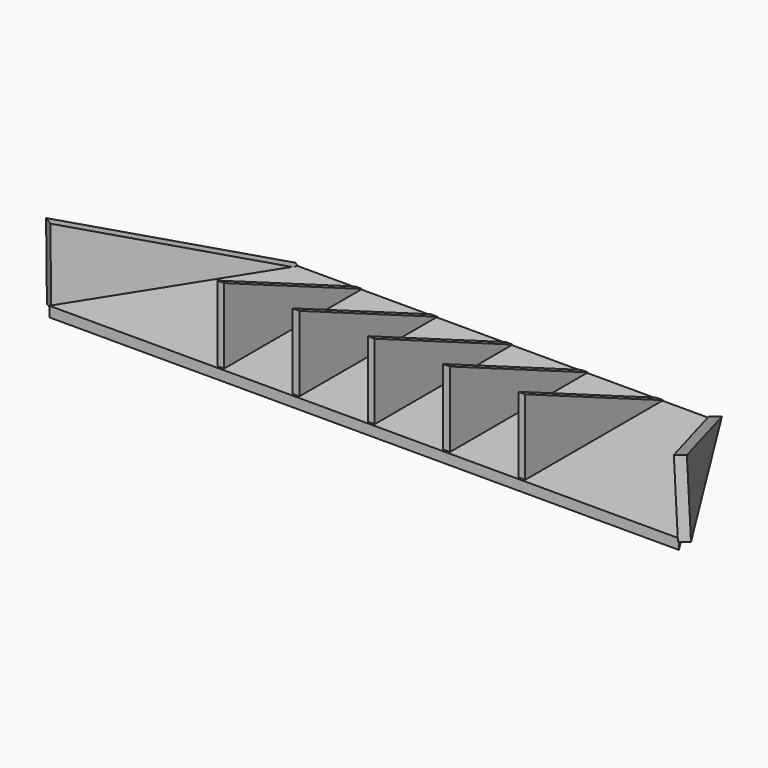
from build123d import *

# Parameters (mm, degrees)
F1_W      = 1168.4
F1_H      = 139.7
F2_DEPTH  = 12.7
F5_DEPTH  = 12.7
F12_DEPTH = 19.05
F15_DEPTH = 19.05
F17_DEPTH = 19.05


with BuildPart() as f2:
    # F1 (on Front) → F2 (new body)
    with BuildSketch(Plane.XZ):
        with Locations((-4.1721994306, 69.85)):
            Rectangle(F1_W, F1_H)
    extrude(amount=F2_DEPTH)


with BuildPart() as f2_1:
    # F3: moved
    add(f2.part.moved(Location((0, -154.94, 0))))


with BuildPart() as f5:
    # F4 (on Right) → F5 (new body)
    with BuildSketch(Plane.YZ):
        Polygon((-152.3200963508, 139.7), (-152.3200963508, 0), (167.8637435442, 0), align=None)
    extrude(amount=F5_DEPTH)


with BuildPart() as f6_1:
    # F6: copy of F5
    add(f5.part.moved(Location((-139.7, 0, 0))))


with BuildPart() as f6_1_1:
    # F7: moved
    add(f6_1.part.moved(Location((-139.7, 0, 0))))


with BuildPart() as f8_1:
    # F8: copy of F5
    add(f5.part.moved(Location((-139.7, 0, 0))))


with BuildPart() as f9_1:
    # F9: copy of F6_1
    add(f6_1_1.part.moved(Location((419.1, 0, 0))))


with BuildPart() as f9_2:
    # F9: copy of F8_1
    add(f8_1.part.moved(Location((419.1, 0, 0))))


with BuildPart() as f12:
    # F11 (on face) → F12 (new body)
    with BuildSketch(Plane(origin=(344.1240771732, 216.9662130061, 18.736204593), x_dir=(-0.5319806734, 0.8462609733, -0.0289642585), z_dir=(0.8450094377, 0.532768585, 0.0460074454))):
        Polygon((-453.6024670901, -31.1885554403), (-54.1591901479, -21.5020952284), (-453.6024670901, 108.5114445597), align=None)
    extrude(amount=F12_DEPTH)


with BuildPart() as f15:
    # F14 (on 3pt) → F15 (new body)
    with BuildSketch(Plane(origin=(-349.9556203778, 220.6429329133, -3.9370209495), x_dir=(-0.5332754391, -0.8459203943, -0.0059993795), z_dir=(-0.8458668679, 0.5333091847, -0.0095160511))):
        Polygon((442.9330268599, 139.7), (61.9330268599, 0), (442.9330268599, 0), align=None)
    extrude(amount=F15_DEPTH)


with BuildPart() as f17:
    # F0 (on Top) → F17 (new body)
    with BuildSketch(Plane.XY):
        Polygon((-384.5869255662, 165.7854326167), (-587.7869255662, -156.5044369107), (580.6130744338, -156.5044369107), (377.4130744338, 165.7854326167), align=None)
    extrude(amount=-F17_DEPTH)


solid = Compound([f5.part, f6_1_1.part, f8_1.part, f9_1.part, f9_2.part, f12.part, f15.part, f17.part])
